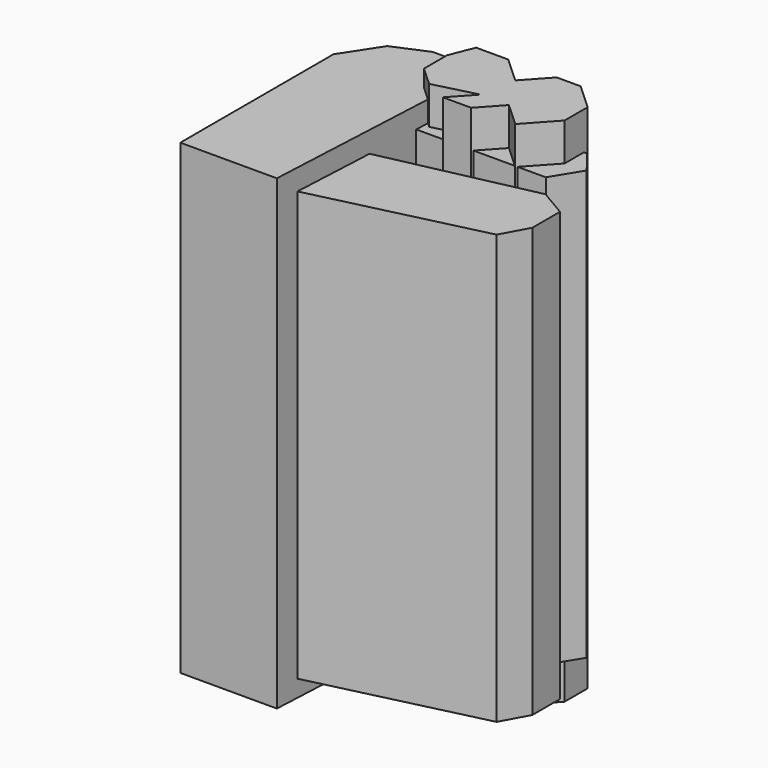
from build123d import *

# Parameters (mm, degrees)
F1_DEPTH      = 84.582
F3_START      = 3.048
F3_DEPTH      = 77.724
F5_DEPTH      = 87.63
F5_DEPTH_BACK = 5.08


with BuildPart() as f1:
    # F0 (on Top) → F1 (new body)
    with BuildSketch(Plane.XY):
        Polygon((17.4885243177, -16.4683610201), (34.9770486355, -16.4683610201), (37.0173789561, 24.9211471528), (33.228199929, 27.5444276631), (27.9816426337, 27.5444276631), (21.8606535345, 24.9211471528), (17.4885243177, 18.2172134519), align=None)
    extrude(amount=F1_DEPTH)

    # F2 (on Top) → F3 (join)
    with BuildSketch(Plane.XY.offset(F3_START)):
        Polygon((63.1398186088, 9.1814752668), (20.5844063312, 0), (22.9162164032, -15.0109836832), (65.4716193676, -4.809344653), (68.0949017406, 0), (68.0949017406, 6.2667215243), align=None)
        Polygon((59.933591634, 22.5893463939), (37.1985062957, 22.5893463939), (22.9162164032, 22.5893463939), (22.9162164032, 13.2621303201), (59.933591634, 13.2621303201), (63.1398186088, 18.508689478), align=None)
    extrude(amount=F3_DEPTH)

    # F4 (on Top) → F5 (join, two sides)
    with BuildSketch(Plane.XY) as f5_sk:
        Polygon((33.8941030204, 18.2172134519), (37.3918153346, 15.0109836832), (45.1184251433, 16.9914124986), (41.4724685252, 13.0139971915), (46.6038940806, 13.0139971915), (50.2498506988, 16.9914124986), (54.5888580382, 13.0139971915), (59.3584632455, 18.2172134519), (59.3584632455, 23.4637726098), (54.5888580382, 27.8359018266), (50.2498506988, 27.8359018266), (46.2420737325, 23.4637726098), (41.4724685252, 27.8359018266), (35.6429591775, 27.8359018266), (33.8941030204, 23.4637726098), align=None)
    extrude(amount=F5_DEPTH)
    extrude(f5_sk.sketch, amount=-F5_DEPTH_BACK)


solid = f1.part
